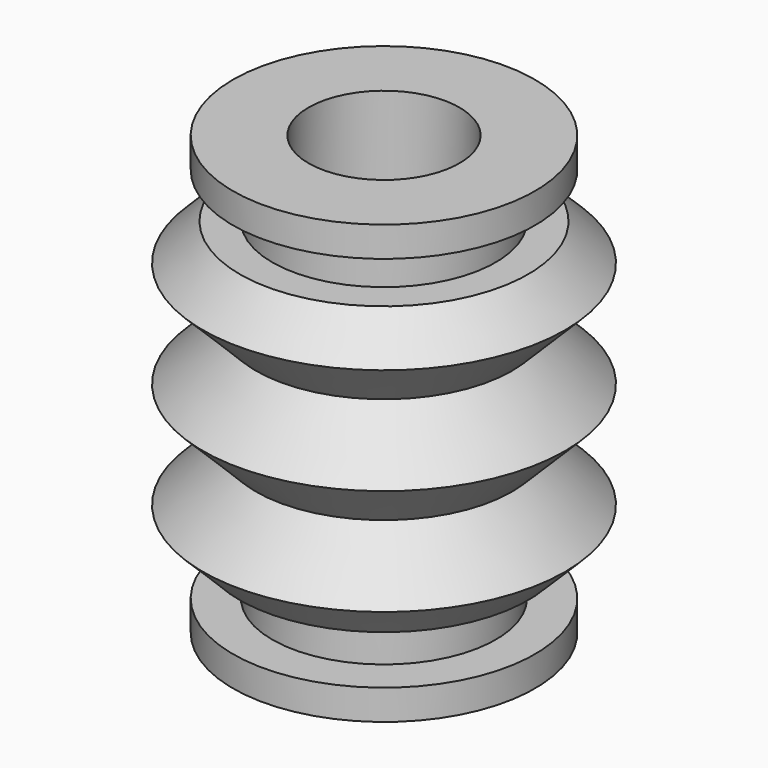
from build123d import *


with BuildPart() as f1:
    # F0 (on Front) → F1 (revolve)
    with BuildSketch(Plane.XZ):
        Polygon((-2.5, 4.535951), (-2.5, 7.25), (-5, 7.25), (-5, 6.25), (-3.7, 6.25), (-3.7, 4.75), (-4.773455, 4.75), (-6, 3.523455), (-4.238273, 1.761727), (-6, 0), (-4.238273, -1.761727), (-6, -3.523455), (-4.773455, -4.75), (-3.7, -4.75), (-3.7, -6.25), (-5, -6.25), (-5, -7.25), (-2.5, -7.25), (-2.5, -3.75), (-5.20777, -3.75), (-5.434315, -3.523455), (-3.672587, -1.761727), (-5.434315, 0), (-3.672587, 1.761727), (-4.473405, 2.562546), align=None)
        Polygon((-4.756248, 2.845388), (-5.434315, 3.523455), (-5.20777, 3.75), (-3.851636, 3.75), align=None, mode=Mode.SUBTRACT)
    revolve(axis=Axis((0, 0, -0.799421), (0, 0, -1)))


solid = f1.part
